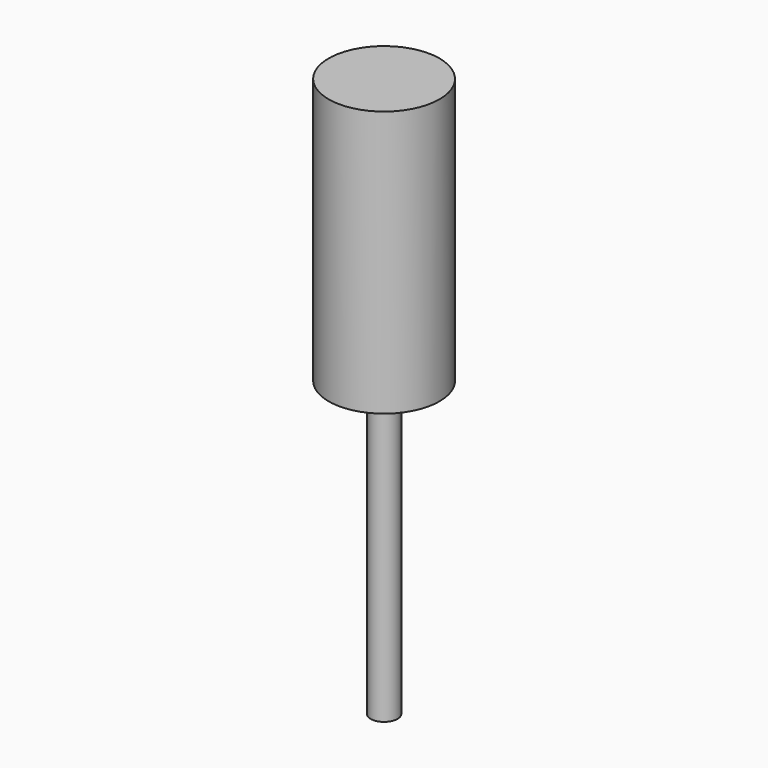
from build123d import *

# Parameters (mm, degrees)
F0_R     = 5.885864
F1_DEPTH = 139.7
F2_R     = 24.242071
F3_DEPTH = 116.332


with BuildPart() as f1:
    # F0 (on Top) → F1 (new body)
    with BuildSketch(Plane.XY):
        Circle(F0_R)
    extrude(amount=F1_DEPTH)


with BuildPart() as f3:
    # F2 (on Top) → F3 (new body)
    with BuildSketch(Plane.XY):
        Circle(F2_R)
    extrude(amount=F3_DEPTH)


with BuildPart() as f3_1:
    # F4: moved
    add(f3.part.moved(Location((0, 0, 145.288))))


with BuildPart() as f3_2:
    # F5: moved
    add(f3_1.part.moved(Location((0, 0, -17.018))))


solid = Compound([f1.part, f3_2.part])
